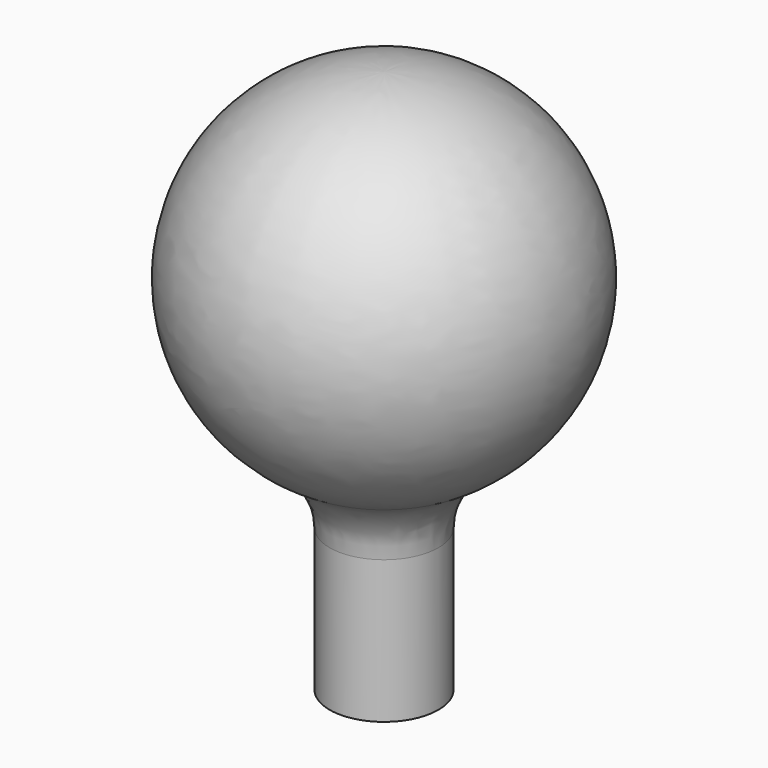
from build123d import *

# Parameters (mm, degrees)
F2_R = 2


with BuildPart() as f1:
    # F0 (on Front) → F1 (revolve)
    with BuildSketch(Plane.XZ):
        with BuildLine():
            Line((1.5, -10), (1.5, -4.769696))
            ThreePointArc((1.5, -4.769696), (4.942089, 0.758788), (0, 5))
            Line((0, 5), (0, -10))
            Line((0, -10), (1.5, -10))
        make_face()
    revolve(axis=Axis((0, 0, -2.5), (0, 0, -1)))

    # F2
    f2_edges = [f1.edges().sort_by_distance(p)[0] for p in [
        (-1.5, 0, -4.769696),
        (4.942089, 0, 0.758788),
    ]]
    fillet(f2_edges, radius=F2_R)


solid = f1.part
